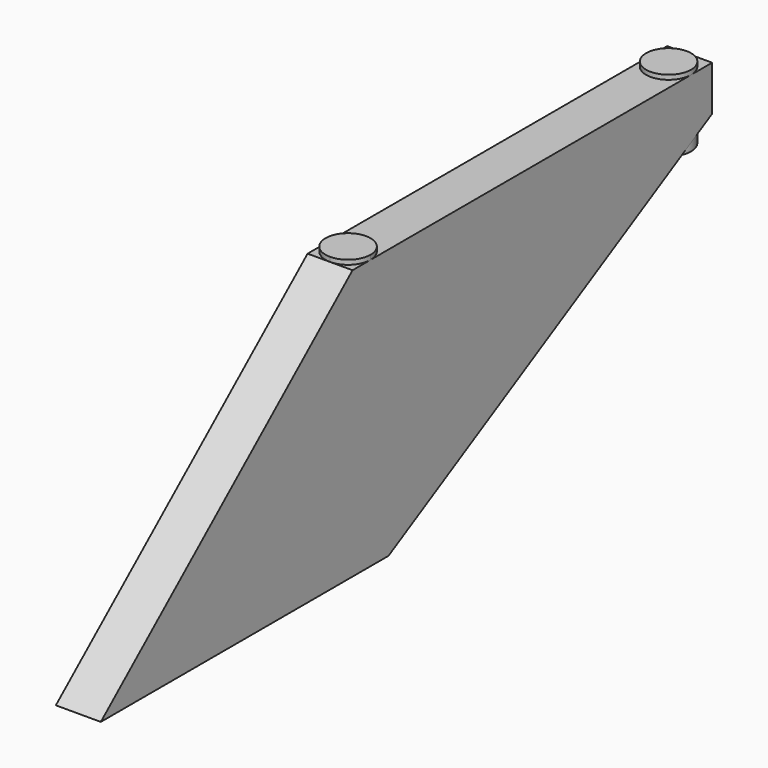
from build123d import *

# Parameters (mm, degrees)
F1_DEPTH      = 5
F3_DEPTH      = 1
F3_DEPTH_BACK = 15
F5_DEPTH      = 1
F5_DEPTH_BACK = 59.9


with BuildPart() as f1:
    # F0 (on Right) → F1 (new body, symmetric)
    with BuildSketch(Plane.YZ):
        Polygon((-111.234378, -36.859374), (-41.234378, -36.859374), (-41.234378, 23.140626), align=None)
        Polygon((-41.234378, 23.140626), (-41.234378, -36.859374), (-31.234378, -36.859374), (58.765622, 13.140626), (58.765622, 23.140626), align=None)
    extrude(amount=F1_DEPTH, both=True)

    # F2 (on face) → F3 (join, two sides)
    with BuildSketch(Plane.XY.offset(23.140626)) as f3_sk:
        with BuildLine():
            ThreePointArc((-5, 52.904069), (0, 47.904069), (5, 52.904069))
            ThreePointArc((5, 52.904069), (0, 57.904069), (-5, 52.904069))
        make_face()
    extrude(amount=F3_DEPTH)
    extrude(f3_sk.sketch, amount=-F3_DEPTH_BACK)

    # F4 (on face) → F5 (join, two sides)
    with BuildSketch(Plane.XY.offset(23.140626)) as f5_sk:
        with BuildLine():
            ThreePointArc((0, -41.234378), (3.535534, -39.769912), (5, -36.234378))
            ThreePointArc((5, -36.234378), (0, -31.234378), (-5, -36.234378))
            ThreePointArc((-5, -36.234378), (-3.535534, -39.769912), (0, -41.234378))
        make_face()
    extrude(amount=F5_DEPTH)
    extrude(f5_sk.sketch, amount=-F5_DEPTH_BACK)


solid = f1.part
